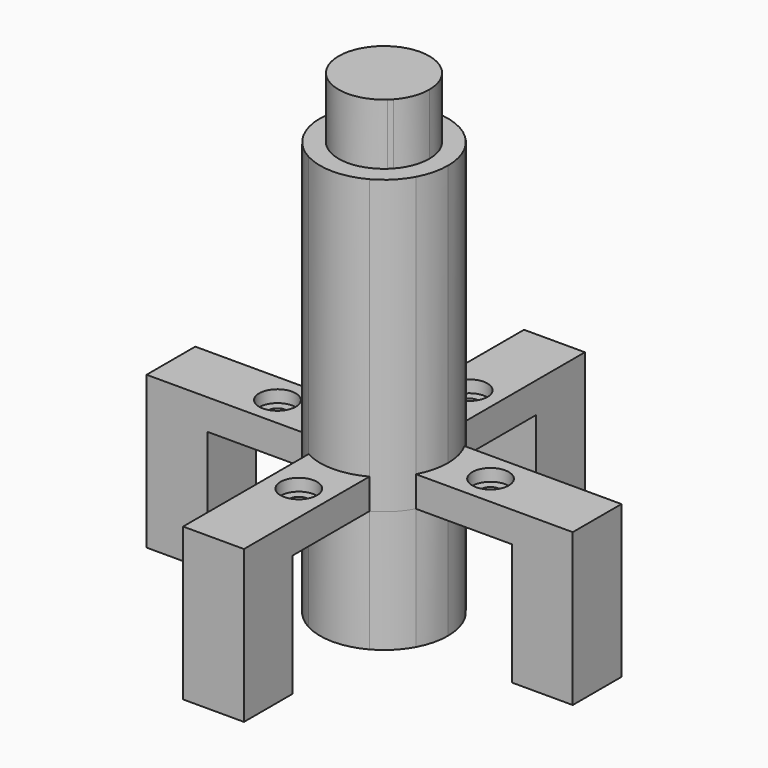
from build123d import *

# Parameters (mm, degrees)
F0_R          = 3
F1_DEPTH      = 5
F0_R_2        = 1.55
F2_DEPTH      = 3
F0_W          = 10
F0_H          = 10
F3_DEPTH      = 5
F3_DEPTH_BACK = 20
F4_DEPTH      = 48
F4_DEPTH_BACK = 20
F5_DEPTH      = 58


with BuildPart() as f1:
    # F0 (on Top) → F1 (new body)
    with BuildSketch(Plane.XY):
        with BuildLine():
            ThreePointArc((-9.2330926563, -5), (-10.5, 0), (-9.2330926563, 5))
            Line((-9.2330926563, 5), (-25, 5))
            Line((-25, 5), (-25, -5))
            Line((-25, -5), (-9.2330926563, -5))
        make_face()
        with Locations((-17.5, 0)):
            Circle(F0_R, mode=Mode.SUBTRACT)
    extrude(amount=F1_DEPTH)

    # F0 (on Top) → F2, piece 4 (join)
    with BuildSketch(Plane.XY):
        with Locations((-17.5, 0)):
            Circle(F0_R)
        with Locations((-17.5, 0)):
            Circle(F0_R_2, mode=Mode.SUBTRACT)
    extrude(amount=F2_DEPTH)

    # F0 (on Top) → F3, piece 4 (join, two sides)
    with BuildSketch(Plane.XY) as f3_4_sk:
        with Locations((-30, 0)):
            Rectangle(F0_W, F0_H)
    extrude(amount=F3_DEPTH)
    extrude(f3_4_sk.sketch, amount=-F3_DEPTH_BACK)



with BuildPart() as f1b:
    # F0 (on Top) → F1, piece 2 (new body)
    with BuildSketch(Plane.XY):
        with BuildLine():
            ThreePointArc((-5, 9.2330926563), (0, 10.5), (5, 9.2330926563))
            Line((5, 9.2330926563), (5, 25))
            Line((5, 25), (-5, 25))
            Line((-5, 25), (-5, 9.2330926563))
        make_face()
        with Locations((0, 17.5)):
            Circle(F0_R, mode=Mode.SUBTRACT)
    extrude(amount=F1_DEPTH)

    # F0 (on Top) → F2 (join)
    with BuildSketch(Plane.XY):
        with Locations((0, 17.5)):
            Circle(F0_R)
        with Locations((0, 17.5)):
            Circle(F0_R_2, mode=Mode.SUBTRACT)
    extrude(amount=F2_DEPTH)

    # F0 (on Top) → F3 (join, two sides)
    with BuildSketch(Plane.XY) as f3_sk:
        with Locations((0, 30)):
            Rectangle(F0_W, F0_H)
    extrude(amount=F3_DEPTH)
    extrude(f3_sk.sketch, amount=-F3_DEPTH_BACK)


with BuildPart() as f1c:
    # F0 (on Top) → F1, piece 3 (new body)
    with BuildSketch(Plane.XY):
        with BuildLine():
            Line((25, 5), (9.2330926563, 5))
            ThreePointArc((9.2330926563, 5), (10.1783464495, 2.5790043727), (10.5, 0))
            ThreePointArc((10.5, 0), (10.1783464495, -2.5790043727), (9.2330926563, -5))
            Line((9.2330926563, -5), (25, -5))
            Line((25, -5), (25, 5))
        make_face()
        with Locations((17.5, 0)):
            Circle(F0_R, mode=Mode.SUBTRACT)
    extrude(amount=F1_DEPTH)

    # F0 (on Top) → F2, piece 2 (join)
    with BuildSketch(Plane.XY):
        with Locations((17.5, 0)):
            Circle(F0_R)
        with Locations((17.5, 0)):
            Circle(F0_R_2, mode=Mode.SUBTRACT)
    extrude(amount=F2_DEPTH)

    # F0 (on Top) → F3, piece 2 (join, two sides)
    with BuildSketch(Plane.XY) as f3_2_sk:
        with Locations((30, 0)):
            Rectangle(F0_W, F0_H)
    extrude(amount=F3_DEPTH)
    extrude(f3_2_sk.sketch, amount=-F3_DEPTH_BACK)


with BuildPart() as f1d:
    # F0 (on Top) → F1, piece 4 (new body)
    with BuildSketch(Plane.XY):
        with BuildLine():
            Line((5, -25), (5, -9.2330926563))
            ThreePointArc((5, -9.2330926563), (0, -10.5), (-5, -9.2330926563))
            Line((-5, -9.2330926563), (-5, -25))
            Line((-5, -25), (5, -25))
        make_face()
        with Locations((0, -17.5)):
            Circle(F0_R, mode=Mode.SUBTRACT)
    extrude(amount=F1_DEPTH)

    # F0 (on Top) → F2, piece 3 (join)
    with BuildSketch(Plane.XY):
        with Locations((0, -17.5)):
            Circle(F0_R)
        with Locations((0, -17.5)):
            Circle(F0_R_2, mode=Mode.SUBTRACT)
    extrude(amount=F2_DEPTH)

    # F0 (on Top) → F3, piece 3 (join, two sides)
    with BuildSketch(Plane.XY) as f3_3_sk:
        with Locations((0, -30)):
            Rectangle(F0_W, F0_H)
    extrude(amount=F3_DEPTH)
    extrude(f3_3_sk.sketch, amount=-F3_DEPTH_BACK)


with BuildPart() as f1_1:
    add(f1.part)

    add(f1b.part)  # F4 merges F1b

    add(f1c.part)  # F4 merges F1c

    add(f1d.part)  # F4 merges F1d
    # F0 (on Top) → F4 (join, two sides)
    with BuildSketch(Plane.XY) as f4_sk:
        with BuildLine():
            Line((-5, -9.2330926563), (-5, -5.5229068433))
            ThreePointArc((-5, -5.5229068433), (-5.2679455198, -5.2679455198), (-5.5229068433, -5))
            Line((-5.5229068433, -5), (-9.2330926563, -5))
            ThreePointArc((-9.2330926563, -5), (-7.4246212025, -7.4246212025), (-5, -9.2330926563))
        make_face()
        with BuildLine():
            ThreePointArc((-5.5229068433, -5), (-7.45, 0), (-5.5229068433, 5))
            Line((-5.5229068433, 5), (-9.2330926563, 5))
            ThreePointArc((-9.2330926563, 5), (-10.5, 0), (-9.2330926563, -5))
            Line((-9.2330926563, -5), (-5.5229068433, -5))
        make_face()
        with BuildLine():
            Line((-5, -5), (-5, 5))
            Line((-5, 5), (-5.5229068433, 5))
            ThreePointArc((-5.5229068433, 5), (-7.45, 0), (-5.5229068433, -5))
            Line((-5.5229068433, -5), (-5, -5))
        make_face()
        with BuildLine():
            ThreePointArc((-5.5229068433, -5), (-5.2679455198, -5.2679455198), (-5, -5.5229068433))
            Line((-5, -5.5229068433), (-5, -5))
            Line((-5, -5), (-5.5229068433, -5))
        make_face()
        with BuildLine():
            ThreePointArc((-5, -5.5229068433), (0, -7.45), (5, -5.5229068433))
            Line((5, -5.5229068433), (5, -5))
            Line((5, -5), (-5, -5))
            Line((-5, -5), (-5, -5.5229068433))
        make_face()
        with BuildLine():
            Line((5, -9.2330926563), (5, -5.5229068433))
            ThreePointArc((5, -5.5229068433), (0, -7.45), (-5, -5.5229068433))
            Line((-5, -5.5229068433), (-5, -9.2330926563))
            ThreePointArc((-5, -9.2330926563), (0, -10.5), (5, -9.2330926563))
        make_face()
        Rectangle(F0_W, F0_H)
        with BuildLine():
            ThreePointArc((5.5229068433, -5), (6.9515522001, -2.6792577346), (7.45, 0))
            ThreePointArc((7.45, 0), (6.9515522001, 2.6792577346), (5.5229068433, 5))
            Line((5.5229068433, 5), (5, 5))
            Line((5, 5), (5, -5))
            Line((5, -5), (5.5229068433, -5))
        make_face()
        with BuildLine():
            Line((9.2330926563, -5), (5.5229068433, -5))
            ThreePointArc((5.5229068433, -5), (5.2679455198, -5.2679455198), (5, -5.5229068433))
            Line((5, -5.5229068433), (5, -9.2330926563))
            ThreePointArc((5, -9.2330926563), (7.4246212025, -7.4246212025), (9.2330926563, -5))
        make_face()
        with BuildLine():
            ThreePointArc((5, -5.5229068433), (5.2679455198, -5.2679455198), (5.5229068433, -5))
            Line((5.5229068433, -5), (5, -5))
            Line((5, -5), (5, -5.5229068433))
        make_face()
        with BuildLine():
            ThreePointArc((5.5229068433, 5), (6.9515522001, 2.6792577346), (7.45, 0))
            ThreePointArc((7.45, 0), (6.9515522001, -2.6792577346), (5.5229068433, -5))
            Line((5.5229068433, -5), (9.2330926563, -5))
            ThreePointArc((9.2330926563, -5), (10.1783464495, -2.5790043727), (10.5, 0))
            ThreePointArc((10.5, 0), (10.1783464495, 2.5790043727), (9.2330926563, 5))
            Line((9.2330926563, 5), (5.5229068433, 5))
        make_face()
        with BuildLine():
            Line((5, 5), (5.5229068433, 5))
            ThreePointArc((5.5229068433, 5), (5.2679455198, 5.2679455198), (5, 5.5229068433))
            Line((5, 5.5229068433), (5, 5))
        make_face()
        with BuildLine():
            ThreePointArc((5, 5.5229068433), (5.2679455198, 5.2679455198), (5.5229068433, 5))
            Line((5.5229068433, 5), (9.2330926563, 5))
            ThreePointArc((9.2330926563, 5), (7.4246212025, 7.4246212025), (5, 9.2330926563))
            Line((5, 9.2330926563), (5, 5.5229068433))
        make_face()
        with BuildLine():
            Line((5, 5), (5, 5.5229068433))
            ThreePointArc((5, 5.5229068433), (0, 7.45), (-5, 5.5229068433))
            Line((-5, 5.5229068433), (-5, 5))
            Line((-5, 5), (5, 5))
        make_face()
        with BuildLine():
            ThreePointArc((-5, 5.5229068433), (0, 7.45), (5, 5.5229068433))
            Line((5, 5.5229068433), (5, 9.2330926563))
            ThreePointArc((5, 9.2330926563), (0, 10.5), (-5, 9.2330926563))
            Line((-5, 9.2330926563), (-5, 5.5229068433))
        make_face()
        with BuildLine():
            ThreePointArc((-5.5229068433, 5), (-5.2679455198, 5.2679455198), (-5, 5.5229068433))
            Line((-5, 5.5229068433), (-5, 9.2330926563))
            ThreePointArc((-5, 9.2330926563), (-7.4246212025, 7.4246212025), (-9.2330926563, 5))
            Line((-9.2330926563, 5), (-5.5229068433, 5))
        make_face()
        with BuildLine():
            Line((-5, 5), (-5, 5.5229068433))
            ThreePointArc((-5, 5.5229068433), (-5.2679455198, 5.2679455198), (-5.5229068433, 5))
            Line((-5.5229068433, 5), (-5, 5))
        make_face()
    extrude(amount=F4_DEPTH)
    extrude(f4_sk.sketch, amount=-F4_DEPTH_BACK)

    # F0 (on Top) → F5 (join)
    with BuildSketch(Plane.XY):
        Rectangle(F0_W, F0_H)
        with BuildLine():
            Line((-5, -5), (-5, 5))
            Line((-5, 5), (-5.5229068433, 5))
            ThreePointArc((-5.5229068433, 5), (-7.45, 0), (-5.5229068433, -5))
            Line((-5.5229068433, -5), (-5, -5))
        make_face()
        with BuildLine():
            Line((5, 5), (5, 5.5229068433))
            ThreePointArc((5, 5.5229068433), (0, 7.45), (-5, 5.5229068433))
            Line((-5, 5.5229068433), (-5, 5))
            Line((-5, 5), (5, 5))
        make_face()
        with BuildLine():
            ThreePointArc((5.5229068433, -5), (6.9515522001, -2.6792577346), (7.45, 0))
            ThreePointArc((7.45, 0), (6.9515522001, 2.6792577346), (5.5229068433, 5))
            Line((5.5229068433, 5), (5, 5))
            Line((5, 5), (5, -5))
            Line((5, -5), (5.5229068433, -5))
        make_face()
        with BuildLine():
            ThreePointArc((-5, -5.5229068433), (0, -7.45), (5, -5.5229068433))
            Line((5, -5.5229068433), (5, -5))
            Line((5, -5), (-5, -5))
            Line((-5, -5), (-5, -5.5229068433))
        make_face()
        with BuildLine():
            ThreePointArc((-5.5229068433, -5), (-5.2679455198, -5.2679455198), (-5, -5.5229068433))
            Line((-5, -5.5229068433), (-5, -5))
            Line((-5, -5), (-5.5229068433, -5))
        make_face()
        with BuildLine():
            ThreePointArc((5, -5.5229068433), (5.2679455198, -5.2679455198), (5.5229068433, -5))
            Line((5.5229068433, -5), (5, -5))
            Line((5, -5), (5, -5.5229068433))
        make_face()
        with BuildLine():
            Line((5, 5), (5.5229068433, 5))
            ThreePointArc((5.5229068433, 5), (5.2679455198, 5.2679455198), (5, 5.5229068433))
            Line((5, 5.5229068433), (5, 5))
        make_face()
        with BuildLine():
            Line((-5, 5), (-5, 5.5229068433))
            ThreePointArc((-5, 5.5229068433), (-5.2679455198, 5.2679455198), (-5.5229068433, 5))
            Line((-5.5229068433, 5), (-5, 5))
        make_face()
    extrude(amount=F5_DEPTH)


solid = f1_1.part
